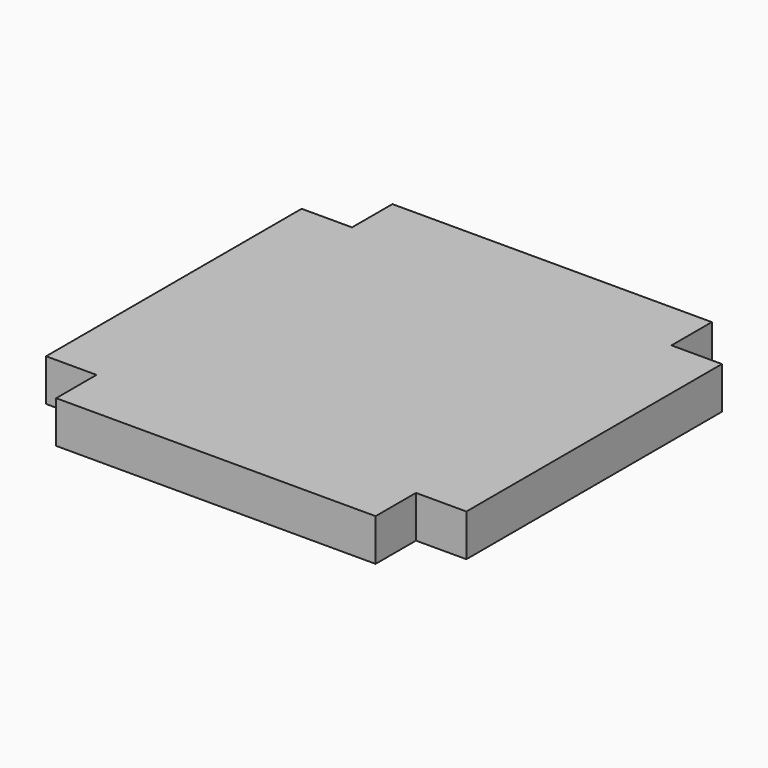
from build123d import *

# Parameters (mm, degrees)
F0_W     = 500
F0_H     = 500
F1_DEPTH = 50
F2_W     = 60
F2_H     = 60
F3_DEPTH = 90
F4_SCALE = 0.2


with BuildPart() as f1:
    # F0 (on Top) → F1 (new body)
    with BuildSketch(Plane.XY):
        with Locations((250, -250)):
            Rectangle(F0_W, F0_H)
    extrude(amount=F1_DEPTH)

    # F2 (on face) → F3 (cut)
    with BuildSketch(Plane.XY.offset(50)):
        with Locations((470, -470)):
            Rectangle(F2_W, F2_H)
        with Locations((30, -30)):
            Rectangle(F2_W, F2_H)
        with Locations((30, -470)):
            Rectangle(F2_W, F2_H)
        with Locations((470, -30)):
            Rectangle(F2_W, F2_H)
    extrude(amount=-F3_DEPTH, mode=Mode.SUBTRACT)


with BuildPart() as f1_1:
    # F4: moved
    add(f1.part.scale(F4_SCALE))


solid = f1_1.part
